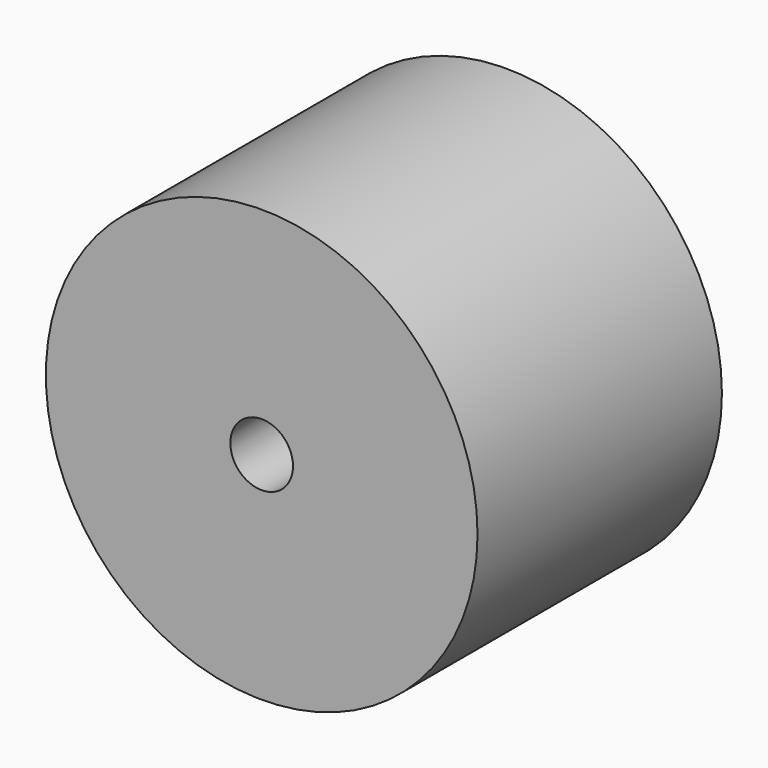
from build123d import *

# Parameters (mm, degrees)
F0_R     = 44.863573
F1_DEPTH = 63.5
F2_R     = 38.515034
F3_DEPTH = 25.4
F4_R     = 6.510435
F5_DEPTH = 63.5


with BuildPart() as f1:
    # F0 (on Front) → F1 (new body)
    with BuildSketch(Plane.XZ):
        Circle(F0_R)
    extrude(amount=F1_DEPTH)

    # F2 (on face) → F3 (cut)
    with BuildSketch(Plane(origin=(0, 0, 0), x_dir=(-1, 0, 0), z_dir=(0, 1, 0))):
        Circle(F2_R)
    extrude(amount=-F3_DEPTH, mode=Mode.SUBTRACT)

    # F4 (on face) → F5 (cut)
    with BuildSketch(Plane.XZ.offset(63.5)):
        Circle(F4_R)
    extrude(amount=-F5_DEPTH, mode=Mode.SUBTRACT)


solid = f1.part
